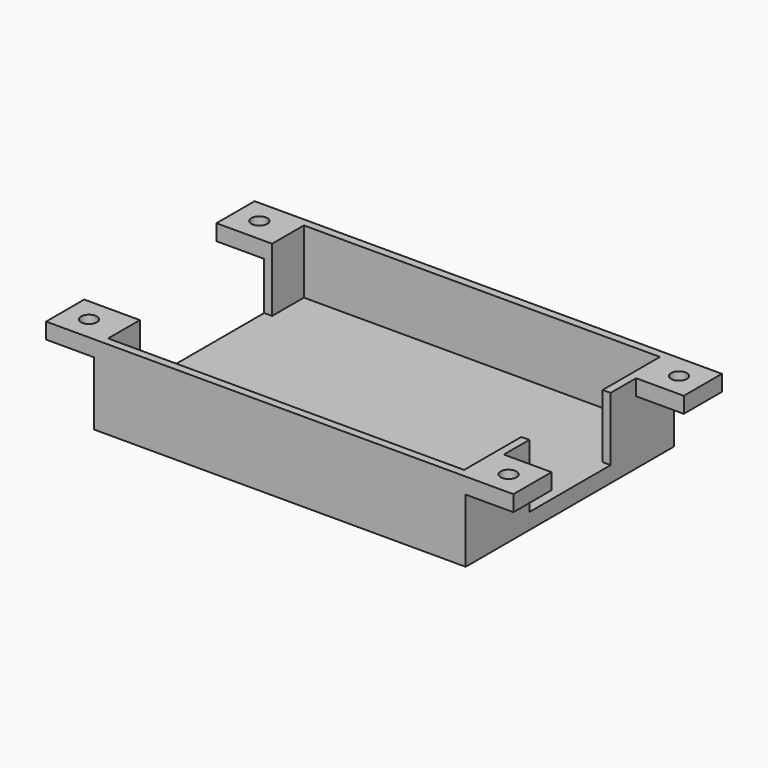
from build123d import *

# Parameters (mm, degrees)
F0_W       = 2.5
F0_H       = 32
F0_H_2     = 52
F1_DEPTH   = 5
F2_DEPTH   = 20
F3_W       = 15
F3_H       = 15
F3_R       = 2.5
F4_W       = 15
F4_H       = 15
F4_R       = 2.5
F5_DEPTH   = 5
F6_SIZE2   = 2.14473742
F6_SIZE    = 2
F7_SIZE2   = 2.14473742
F7_SIZE    = 2
F8_SIZE2   = 2.14473742
F8_SIZE    = 2
F8_2_SIZE2 = 2.14473742
F8_2_SIZE  = 2


with BuildPart() as f1:
    # F0 (on Top) → F1 (new body)
    with BuildSketch(Plane.XY):
        Polygon((61.6508859247, 52.6726719439), (-55.3491140753, 52.6726719439), (-55.3491140753, 37.6726719439), (-52.8491140753, 37.6726719439), (-52.8491140753, 50.1726719439), (59.1508859247, 50.1726719439), (59.1508859247, 27.6726719439), (61.6508859247, 27.6726719439), align=None)
        Polygon((-52.8491140753, 50.1726719439), (-52.8491140753, 37.6726719439), (-52.8491140753, -14.3273280561), (-52.8491140753, -26.8273280561), (59.1508859247, -26.8273280561), (59.1508859247, -4.3273280561), (59.1508859247, 27.6726719439), (59.1508859247, 50.1726719439), align=None)
        with Locations((60.4008859247, 11.6726719439)):
            Rectangle(F0_W, F0_H)
        Polygon((-52.8491140753, -14.3273280561), (-55.3491140753, -14.3273280561), (-55.3491140753, -29.3273280561), (61.6508859247, -29.3273280561), (61.6508859247, -4.3273280561), (59.1508859247, -4.3273280561), (59.1508859247, -26.8273280561), (-52.8491140753, -26.8273280561), align=None)
        with Locations((-54.0991140753, 11.6726719439)):
            Rectangle(F0_W, F0_H_2)
    extrude(amount=-F1_DEPTH)

    # F0 (on Top) → F2 (join)
    with BuildSketch(Plane.XY):
        Polygon((61.6508859247, 52.6726719439), (-55.3491140753, 52.6726719439), (-55.3491140753, 37.6726719439), (-52.8491140753, 37.6726719439), (-52.8491140753, 50.1726719439), (59.1508859247, 50.1726719439), (59.1508859247, 27.6726719439), (61.6508859247, 27.6726719439), align=None)
        Polygon((-52.8491140753, -14.3273280561), (-55.3491140753, -14.3273280561), (-55.3491140753, -29.3273280561), (61.6508859247, -29.3273280561), (61.6508859247, -4.3273280561), (59.1508859247, -4.3273280561), (59.1508859247, -26.8273280561), (-52.8491140753, -26.8273280561), align=None)
    extrude(amount=F2_DEPTH)

    # F3 (on face) + F4 (on face) → F5 (join)
    with BuildSketch(Plane.XY.offset(20)):
        with Locations((-62.8491140753, 45.1726719439)):
            Rectangle(F3_W, F3_H)
        with Locations((-62.8491140753, 45.1726719439)):
            Circle(F3_R, mode=Mode.SUBTRACT)
        with Locations((69.1508859247, 45.1726719439)):
            Rectangle(F3_W, F3_H)
        with Locations((69.1508859247, 45.1726719439)):
            Circle(F3_R, mode=Mode.SUBTRACT)
    with BuildSketch(Plane.XY.offset(20)):
        with Locations((-62.8491140753, -21.8273280561)):
            Rectangle(F4_W, F4_H)
        with Locations((-62.8491140753, -21.8273280561)):
            Circle(F4_R, mode=Mode.SUBTRACT)
        with Locations((69.1508859247, -21.8273280561)):
            Rectangle(F4_W, F4_H)
        with Locations((69.1508859247, -21.8273280561)):
            Circle(F4_R, mode=Mode.SUBTRACT)
    extrude(amount=-F5_DEPTH)

    # F6
    f6_edges = [f1.edges().sort_by_distance(p)[0] for p in [
        (66.650886, -21.827328, 15),
    ]]
    f6_side = f1.faces().sort_by_distance((76.438754, -21.827328, 15))[0]
    chamfer(f6_edges, length=F6_SIZE, length2=F6_SIZE2, reference=f6_side)

    # F7
    f7_edges = [f1.edges().sort_by_distance(p)[0] for p in [
        (66.650886, 45.172672, 15),
    ]]
    f7_side = f1.faces().sort_by_distance((69.150886, 52.46054, 15))[0]
    chamfer(f7_edges, length=F7_SIZE, length2=F7_SIZE2, reference=f7_side)

    # F8
    f8_edges = [f1.edges().sort_by_distance(p)[0] for p in [
        (-65.349114, -21.827328, 15),
    ]]
    f8_side = f1.faces().sort_by_distance((-62.849114, -29.115196, 15))[0]
    chamfer(f8_edges, length=F8_SIZE, length2=F8_SIZE2, reference=f8_side)

    # F8#2
    f8_2_edges = [f1.edges().sort_by_distance(p)[0] for p in [
        (-65.349114, 45.172672, 15),
    ]]
    f8_2_side = f1.faces().sort_by_distance((-62.849114, 37.884804, 15))[0]
    chamfer(f8_2_edges, length=F8_2_SIZE, length2=F8_2_SIZE2, reference=f8_2_side)


solid = f1.part
